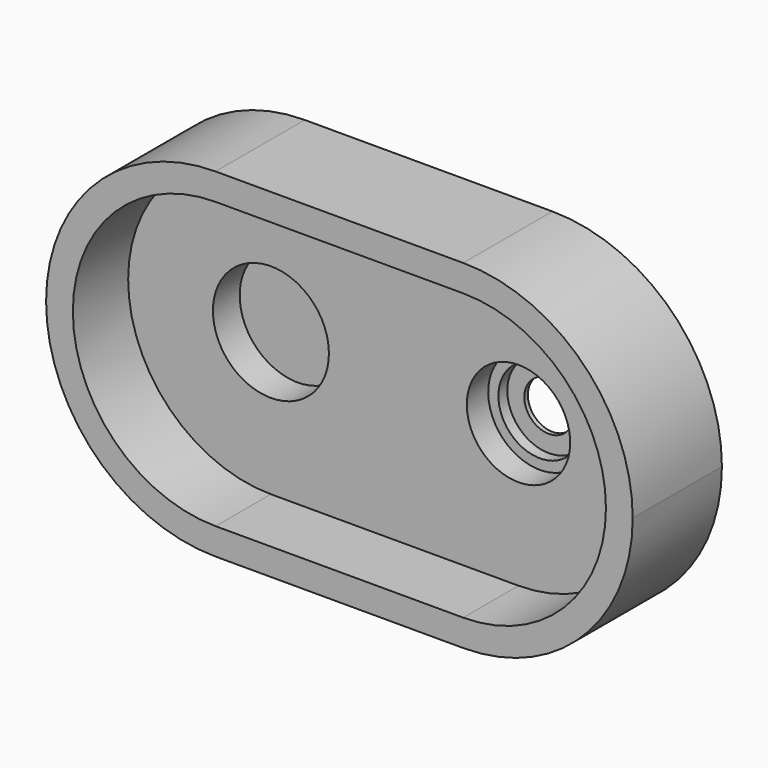
from build123d import *

# Parameters (mm, degrees)
F1_DEPTH = 50
F4_DEPTH = 100
F5_DEPTH = 31
F6_R     = 26
F7_DEPTH = 15


with BuildPart() as f1:
    # F0 (on Front) → F1 (new body)
    with BuildSketch(Plane.XZ):
        with BuildLine():
            Line((111, 76), (0, 76))
            ThreePointArc((0, 76), (30.2492433933, 69.7207521053), (55.5, 51.9206124771))
            ThreePointArc((55.5, 51.9206124771), (80.7507566067, 69.7207521053), (111, 76))
        make_face()
        with BuildLine():
            ThreePointArc((55.5, -51.9206124771), (30.2492433933, -69.7207521053), (0, -76))
            Line((0, -76), (111, -76))
            ThreePointArc((111, -76), (80.7507566067, -69.7207521053), (55.5, -51.9206124771))
        make_face()
        with BuildLine():
            ThreePointArc((76, 0), (70.6894617323, 27.9105714739), (55.5, 51.9206124771))
            ThreePointArc((55.5, 51.9206124771), (35, 0), (55.5, -51.9206124771))
            ThreePointArc((55.5, -51.9206124771), (70.6894617323, -27.9105714739), (76, 0))
        make_face()
        with BuildLine():
            ThreePointArc((111, 76), (80.7507566067, 69.7207521053), (55.5, 51.9206124771))
            ThreePointArc((55.5, 51.9206124771), (70.6894617323, 27.9105714739), (76, 0))
            ThreePointArc((76, 0), (70.6894617323, -27.9105714739), (55.5, -51.9206124771))
            ThreePointArc((55.5, -51.9206124771), (80.7507566067, -69.7207521053), (111, -76))
            ThreePointArc((111, -76), (164.7401153702, -53.7401153702), (187, 0))
            ThreePointArc((187, 0), (164.7401153702, 53.7401153702), (111, 76))
        make_face()
        with BuildLine():
            ThreePointArc((55.5, 51.9206124771), (30.2492433933, 69.7207521053), (0, 76))
            ThreePointArc((0, 76), (-76, 0), (0, -76))
            ThreePointArc((0, -76), (30.2492433933, -69.7207521053), (55.5, -51.9206124771))
            ThreePointArc((55.5, -51.9206124771), (35, 0), (55.5, 51.9206124771))
        make_face()
    extrude(amount=F1_DEPTH)

    # F3 (on offset) + F1_face (on face) → F4 (cut)
    with BuildSketch(Plane.XZ.offset(19)):
        with BuildLine():
            ThreePointArc((55.5, 31.870833061), (32.0645184285, 55.3883260078), (0, 64))
            ThreePointArc((0, 64), (-64, 0), (0, -64))
            ThreePointArc((0, -64), (32.0645184285, -55.3883260078), (55.5, -31.870833061))
            ThreePointArc((55.5, -31.870833061), (47, 0), (55.5, 31.870833061))
        make_face()
        with BuildLine():
            Line((111, 64), (0, 64))
            ThreePointArc((0, 64), (32.0645184285, 55.3883260078), (55.5, 31.870833061))
            ThreePointArc((55.5, 31.870833061), (78.9354815715, 55.3883260078), (111, 64))
        make_face()
        with BuildLine():
            ThreePointArc((55.5, -31.870833061), (32.0645184285, -55.3883260078), (0, -64))
            Line((0, -64), (111, -64))
            ThreePointArc((111, -64), (78.9354815715, -55.3883260078), (55.5, -31.870833061))
        make_face()
        with BuildLine():
            ThreePointArc((111, 64), (78.9354815715, 55.3883260078), (55.5, 31.870833061))
            ThreePointArc((55.5, 31.870833061), (61.838499335, 16.4924225025), (64, 0))
            ThreePointArc((64, 0), (61.838499335, -16.4924225025), (55.5, -31.870833061))
            ThreePointArc((55.5, -31.870833061), (78.9354815715, -55.3883260078), (111, -64))
            ThreePointArc((111, -64), (156.2548339959, -45.2548339959), (175, 0))
            ThreePointArc((175, 0), (156.2548339959, 45.2548339959), (111, 64))
        make_face()
    with BuildSketch(Plane(origin=(55.5, -50, 0), x_dir=(1, 0, 0), z_dir=(0, -1, 0))):
        with BuildLine():
            Line((55.5, 76), (-55.5, 76))
            ThreePointArc((-55.5, 76), (-131.5, 0), (-55.5, -76))
            Line((-55.5, -76), (55.5, -76))
            ThreePointArc((55.5, -76), (131.5, 0), (55.5, 76))
        make_face()
    extrude(amount=F4_DEPTH, mode=Mode.SUBTRACT)

    # F5 (cut, through all): a face of the model
    f5_faces = [f1.faces().sort_by_distance(p)[0] for p in [
        (55.5, -50, 0),
    ]]
    extrude(f5_faces, amount=-F5_DEPTH, mode=Mode.SUBTRACT)

    # F6 (on offset) → F7 (cut)
    with BuildSketch(Plane.XZ.offset(19)):
        Circle(F6_R)
    extrude(amount=-F7_DEPTH, mode=Mode.SUBTRACT)

    # F9 (on offset) → F10 (revolve, cut)
    with BuildSketch(Plane.YZ.offset(111)):
        Polygon((-19, 0), (0, 0), (0, 11), (-2, 11), (-2, 18.6120123814), (-7, 18.6120123814), (-7, 23.182326171), (-19, 23.182326171), align=None)
    revolve(axis=Axis((111, -26.2971315533, 0), (0, -1, 0)), mode=Mode.SUBTRACT)


solid = f1.part
